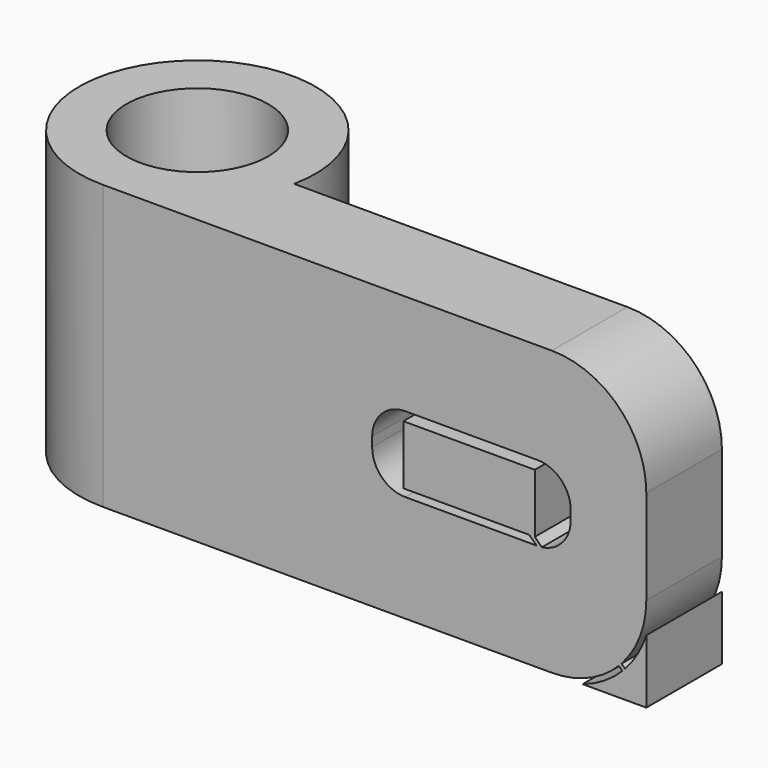
from build123d import *

# Parameters (mm, degrees)
SKETCH_R     = 1.5
PAD_DEPTH    = 6
SKETCH001_W  = 4.2
SKETCH001_H  = 1.6
POCKET_DEPTH = 5
FILLET_R     = 2
FILLET001_R  = 0.7
PAD001_DEPTH = 2


with BuildPart() as part:
    # Sketch → Pad (new body)
    with BuildSketch(Plane.XY):
        with BuildLine():
            ThreePointArc((2.44949, -0.5), (-1.581139, 1.936492), (0, -2.5))
            Line((0, -2.5), (11.5, -2.5))
            Line((11.5, -2.5), (11.5, -0.5))
            Line((11.5, -0.5), (2.44949, -0.5))
        make_face()
        Circle(SKETCH_R, mode=Mode.SUBTRACT)
    extrude(amount=PAD_DEPTH)

    # Sketch001 (on Face2 of Pad) → Pocket (cut)
    with BuildSketch(Plane.XZ.offset(2.5)):
        with Locations((7.8, 3.064189)):
            Rectangle(SKETCH001_W, SKETCH001_H)
    extrude(amount=-POCKET_DEPTH, mode=Mode.SUBTRACT)

    # Fillet
    fillet_edges = [part.edges().sort_by_distance(p)[0] for p in [
        (11.5, -1.5, 6),
        (11.5, -1.5, 0),
    ]]
    fillet(fillet_edges, radius=FILLET_R)

    # Fillet001
    fillet001_edges = [part.edges().sort_by_distance(p)[0] for p in [
        (5.7, -1.5, 3.864189),
        (5.7, -1.5, 2.264189),
        (9.9, -1.5, 3.864189),
        (9.9, -1.5, 2.264189),
    ]]
    fillet(fillet001_edges, radius=FILLET001_R)

    # Sketch002 (on Face16 of Fillet001) → Pad001 (join)
    with BuildSketch(Plane.XZ.offset(2.5)):
        with BuildLine():
            Line((6.359142, 3.664189), (9.14113, 3.664189))
            Line((9.14113, 3.664189), (9.14113, 2.414189))
            Line((9.14113, 2.414189), (11.049985, 0.577696))
            ThreePointArc((11.049985, 0.577696), (11.316274, 0.938609), (11.5, 1.347771))
            Line((11.5, 1.347771), (11.5, 0))
            Line((11.5, 0), (10.152229, 0))
            ThreePointArc((10.152229, 0), (10.603745, 0.209148), (10.993504, 0.518497))
            Line((10.993504, 0.518497), (9.023117, 2.414189))
            Line((9.023117, 2.414189), (6.359142, 2.414189))
            Line((6.359142, 2.414189), (6.359142, 3.664189))
        make_face()
    extrude(amount=-PAD001_DEPTH)


solid = part.part
